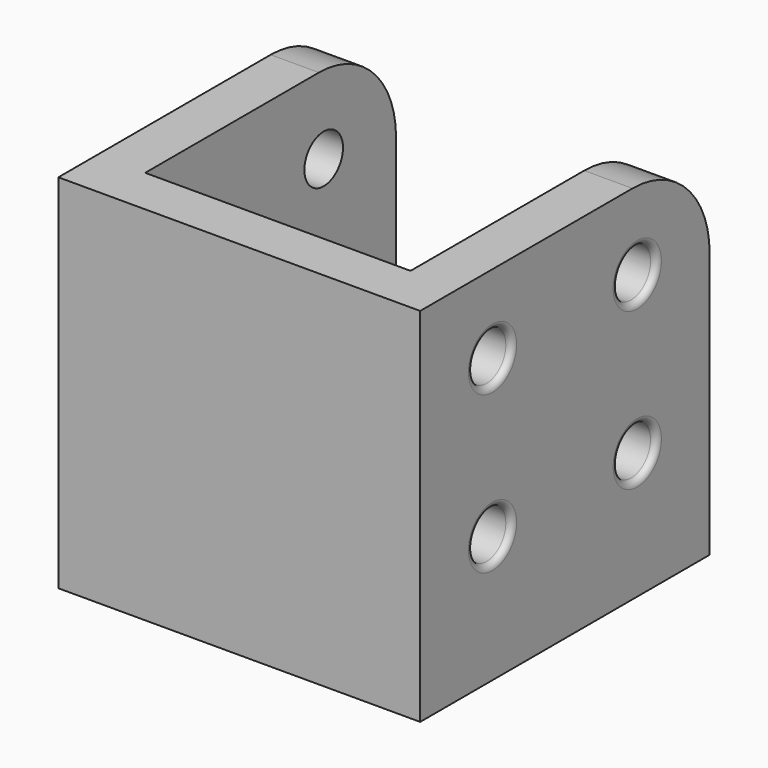
from build123d import *

# Parameters (mm, degrees)
F1_DEPTH = 30
F0_W     = 22
F0_H     = 26
F2_DEPTH = 4
F3_R     = 8
F4_R     = 2
F5_DEPTH = 35
F6_R     = 0.5


with BuildPart() as f1:
    # F0 (on Top) → F1 (new body)
    with BuildSketch(Plane.XY):
        Polygon((-11, 15), (-15, 15), (-15, -15), (15, -15), (15, 15), (11, 15), (11, -11), (-11, -11), align=None)
    extrude(amount=F1_DEPTH)

    # F0 (on Top) → F2 (join)
    with BuildSketch(Plane.XY):
        with Locations((0, 2)):
            Rectangle(F0_W, F0_H)
    extrude(amount=F2_DEPTH)

    # F3
    f3_edges = [f1.edges().sort_by_distance(p)[0] for p in [
        (-13, 15, 30),
        (13, 15, 30),
    ]]
    fillet(f3_edges, radius=F3_R)

    # F4 (on face) → F5 (cut)
    with BuildSketch(Plane.YZ.offset(15)):
        with Locations((7.5, 23.5)):
            Circle(F4_R)
        with Locations((-7.5, 23.5)):
            Circle(F4_R)
        with Locations((-7.5, 10.5)):
            Circle(F4_R)
        with Locations((7.5, 10.5)):
            Circle(F4_R)
    extrude(amount=-F5_DEPTH, mode=Mode.SUBTRACT)

    # F6
    f6_edges = [f1.edges().sort_by_distance(p)[0] for p in [
        (15, -9.5, 10.5),
        (15, 5.5, 10.5),
        (15, 5.5, 23.5),
        (15, -9.5, 23.5),
        (-15, 5.5, 10.5),
        (-15, 5.5, 23.5),
        (-15, -9.5, 23.5),
        (-15, -9.5, 10.5),
    ]]
    fillet(f6_edges, radius=F6_R)


solid = f1.part
